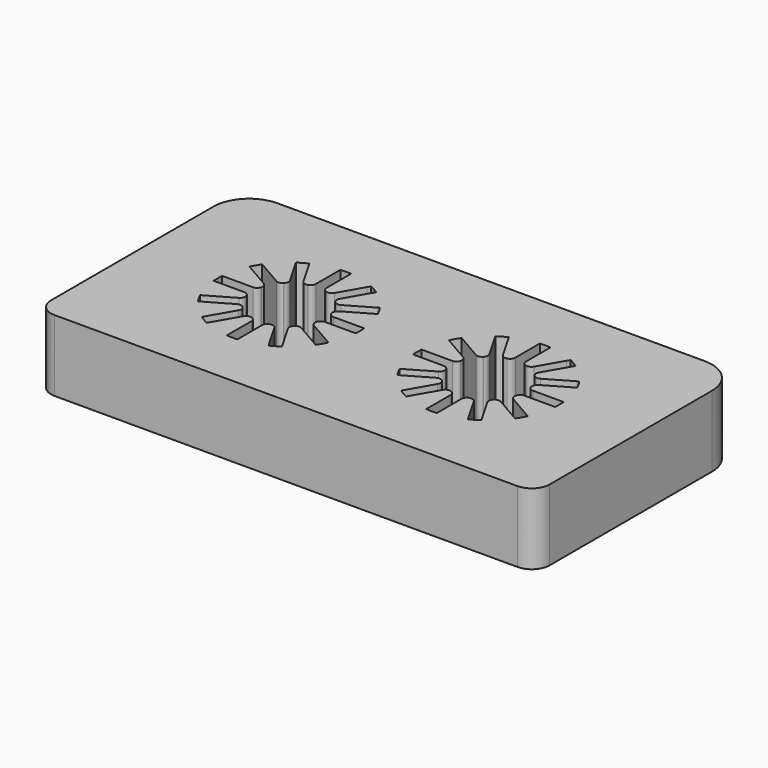
from build123d import *

# Parameters (mm, degrees)
F1_DEPTH = 20
F2_R     = 1.5


with BuildPart() as f1:
    # F0 (on Top) → F1 (new body)
    with BuildSketch(Plane.XY):
        with BuildLine():
            ThreePointArc((37, -36), (40.535534, -34.535534), (42, -31))
            Line((42, -31), (42, 26))
            ThreePointArc((42, 26), (39.071068, 33.071068), (32, 36))
            Line((32, 36), (-88, 36))
            ThreePointArc((-88, 36), (-95.071068, 33.071068), (-98, 26))
            Line((-98, 26), (-98, -31))
            ThreePointArc((-98, -31), (-96.535534, -34.535534), (-93, -36))
            Line((-93, -36), (37, -36))
        make_face()
        with BuildLine():
            ThreePointArc((-74.021725, 8.672797), (-73.320508, 10), (-72.521725, 11.270873))
            Line((-72.521725, 11.270873), (-64.004728, 6.353583))
            ThreePointArc((-64.004728, 6.353583), (-63.226468, 7.226468), (-62.353583, 8.004728))
            Line((-62.353583, 8.004728), (-66.791579, 15.691563))
            Line((-66.791579, 15.691563), (-67.270873, 16.521725))
            ThreePointArc((-67.270873, 16.521725), (-66, 17.320508), (-64.672797, 18.021725))
            Line((-64.672797, 18.021725), (-64.419191, 17.582466))
            Line((-64.419191, 17.582466), (-59.755506, 9.504728))
            ThreePointArc((-59.755506, 9.504728), (-58.645071, 9.871539), (-57.5, 10.109089))
            Line((-57.5, 10.109089), (-57.5, 19.943671))
            ThreePointArc((-57.5, 19.943671), (-56, 20), (-54.5, 19.943671))
            Line((-54.5, 19.943671), (-54.5, 10.109089))
            ThreePointArc((-54.5, 10.109089), (-53.354929, 9.871539), (-52.244494, 9.504728))
            Line((-52.244494, 9.504728), (-47.83408, 17.143788))
            Line((-47.83408, 17.143788), (-47.327203, 18.021725))
            ThreePointArc((-47.327203, 18.021725), (-46, 17.320508), (-44.729127, 16.521725))
            Line((-44.729127, 16.521725), (-45.236004, 15.643788))
            Line((-45.236004, 15.643788), (-49.646417, 8.004728))
            ThreePointArc((-49.646417, 8.004728), (-48.773532, 7.226468), (-47.995272, 6.353583))
            Line((-47.995272, 6.353583), (-39.899089, 11.027916))
            Line((-39.899089, 11.027916), (-39.478275, 11.270873))
            ThreePointArc((-39.478275, 11.270873), (-38.679492, 10), (-37.978275, 8.672797))
            Line((-37.978275, 8.672797), (-38.399089, 8.42984))
            Line((-38.399089, 8.42984), (-46.495272, 3.755506))
            ThreePointArc((-46.495272, 3.755506), (-46.128461, 2.645071), (-45.890911, 1.5))
            Line((-45.890911, 1.5), (-36.056329, 1.5))
            ThreePointArc((-36.056329, 1.5), (-36, 0), (-36.056329, -1.5))
            Line((-36.056329, -1.5), (-45.890911, -1.5))
            ThreePointArc((-45.890911, -1.5), (-46.128461, -2.645071), (-46.495272, -3.755506))
            Line((-46.495272, -3.755506), (-37.978275, -8.672797))
            ThreePointArc((-37.978275, -8.672797), (-38.679492, -10), (-39.478275, -11.270873))
            Line((-39.478275, -11.270873), (-47.995272, -6.353583))
            ThreePointArc((-47.995272, -6.353583), (-48.773532, -7.226468), (-49.646417, -8.004728))
            Line((-49.646417, -8.004728), (-44.729127, -16.521725))
            ThreePointArc((-44.729127, -16.521725), (-46, -17.320508), (-47.327203, -18.021725))
            Line((-47.327203, -18.021725), (-52.244494, -9.504728))
            ThreePointArc((-52.244494, -9.504728), (-53.354929, -9.871539), (-54.5, -10.109089))
            Line((-54.5, -10.109089), (-54.5, -19.943671))
            ThreePointArc((-54.5, -19.943671), (-56, -20), (-57.5, -19.943671))
            Line((-57.5, -19.943671), (-57.5, -10.109089))
            ThreePointArc((-57.5, -10.109089), (-58.645071, -9.871539), (-59.755506, -9.504728))
            Line((-59.755506, -9.504728), (-64.672797, -18.021725))
            ThreePointArc((-64.672797, -18.021725), (-66, -17.320508), (-67.270873, -16.521725))
            Line((-67.270873, -16.521725), (-62.353583, -8.004728))
            ThreePointArc((-62.353583, -8.004728), (-63.226468, -7.226468), (-64.004728, -6.353583))
            Line((-64.004728, -6.353583), (-72.521725, -11.270873))
            ThreePointArc((-72.521725, -11.270873), (-73.320508, -10), (-74.021725, -8.672797))
            Line((-74.021725, -8.672797), (-65.504728, -3.755506))
            ThreePointArc((-65.504728, -3.755506), (-65.871539, -2.645071), (-66.109089, -1.5))
            Line((-66.109089, -1.5), (-75.943671, -1.5))
            ThreePointArc((-75.943671, -1.5), (-76, 0), (-75.943671, 1.5))
            Line((-75.943671, 1.5), (-66.109089, 1.5))
            ThreePointArc((-66.109089, 1.5), (-65.871539, 2.645071), (-65.504728, 3.755506))
            Line((-65.504728, 3.755506), (-74.021725, 8.672797))
        make_face(mode=Mode.SUBTRACT)
        with BuildLine():
            ThreePointArc((-18.021725, 8.672797), (-17.320508, 10), (-16.521725, 11.270873))
            Line((-16.521725, 11.270873), (-8.004728, 6.353583))
            ThreePointArc((-8.004728, 6.353583), (-7.226468, 7.226468), (-6.353583, 8.004728))
            Line((-6.353583, 8.004728), (-10.791579, 15.691563))
            Line((-10.791579, 15.691563), (-11.270873, 16.521725))
            ThreePointArc((-11.270873, 16.521725), (-10, 17.320508), (-8.672797, 18.021725))
            Line((-8.672797, 18.021725), (-8.419191, 17.582466))
            Line((-8.419191, 17.582466), (-3.755506, 9.504728))
            ThreePointArc((-3.755506, 9.504728), (-2.645071, 9.871539), (-1.5, 10.109089))
            Line((-1.5, 10.109089), (-1.5, 19.943671))
            ThreePointArc((-1.5, 19.943671), (0, 20), (1.5, 19.943671))
            Line((1.5, 19.943671), (1.5, 10.109089))
            ThreePointArc((1.5, 10.109089), (2.645071, 9.871539), (3.755506, 9.504728))
            Line((3.755506, 9.504728), (8.16592, 17.143788))
            Line((8.16592, 17.143788), (8.672797, 18.021725))
            ThreePointArc((8.672797, 18.021725), (10, 17.320508), (11.270873, 16.521725))
            Line((11.270873, 16.521725), (10.763996, 15.643788))
            Line((10.763996, 15.643788), (6.353583, 8.004728))
            ThreePointArc((6.353583, 8.004728), (7.226468, 7.226468), (8.004728, 6.353583))
            Line((8.004728, 6.353583), (16.100911, 11.027916))
            Line((16.100911, 11.027916), (16.521725, 11.270873))
            ThreePointArc((16.521725, 11.270873), (17.320508, 10), (18.021725, 8.672797))
            Line((18.021725, 8.672797), (17.600911, 8.42984))
            Line((17.600911, 8.42984), (9.504728, 3.755506))
            ThreePointArc((9.504728, 3.755506), (9.871539, 2.645071), (10.109089, 1.5))
            Line((10.109089, 1.5), (19.943671, 1.5))
            ThreePointArc((19.943671, 1.5), (20, 0), (19.943671, -1.5))
            Line((19.943671, -1.5), (10.109089, -1.5))
            ThreePointArc((10.109089, -1.5), (9.871539, -2.645071), (9.504728, -3.755506))
            Line((9.504728, -3.755506), (18.021725, -8.672797))
            ThreePointArc((18.021725, -8.672797), (17.320508, -10), (16.521725, -11.270873))
            Line((16.521725, -11.270873), (8.004728, -6.353583))
            ThreePointArc((8.004728, -6.353583), (7.226468, -7.226468), (6.353583, -8.004728))
            Line((6.353583, -8.004728), (11.270873, -16.521725))
            ThreePointArc((11.270873, -16.521725), (10, -17.320508), (8.672797, -18.021725))
            Line((8.672797, -18.021725), (3.755506, -9.504728))
            ThreePointArc((3.755506, -9.504728), (2.645071, -9.871539), (1.5, -10.109089))
            Line((1.5, -10.109089), (1.5, -19.943671))
            ThreePointArc((1.5, -19.943671), (0, -20), (-1.5, -19.943671))
            Line((-1.5, -19.943671), (-1.5, -10.109089))
            ThreePointArc((-1.5, -10.109089), (-2.645071, -9.871539), (-3.755506, -9.504728))
            Line((-3.755506, -9.504728), (-8.672797, -18.021725))
            ThreePointArc((-8.672797, -18.021725), (-10, -17.320508), (-11.270873, -16.521725))
            Line((-11.270873, -16.521725), (-6.353583, -8.004728))
            ThreePointArc((-6.353583, -8.004728), (-7.226468, -7.226468), (-8.004728, -6.353583))
            Line((-8.004728, -6.353583), (-16.521725, -11.270873))
            ThreePointArc((-16.521725, -11.270873), (-17.320508, -10), (-18.021725, -8.672797))
            Line((-18.021725, -8.672797), (-9.504728, -3.755506))
            ThreePointArc((-9.504728, -3.755506), (-9.871539, -2.645071), (-10.109089, -1.5))
            Line((-10.109089, -1.5), (-19.943671, -1.5))
            ThreePointArc((-19.943671, -1.5), (-20, 0), (-19.943671, 1.5))
            Line((-19.943671, 1.5), (-10.109089, 1.5))
            ThreePointArc((-10.109089, 1.5), (-9.871539, 2.645071), (-9.504728, 3.755506))
            Line((-9.504728, 3.755506), (-18.021725, 8.672797))
        make_face(mode=Mode.SUBTRACT)
    extrude(amount=F1_DEPTH)

    # F2
    f2_edges = [f1.edges().sort_by_distance(p)[0] for p in [
        (-3.755506, 9.504728, 10),
        (-1.5, 10.109089, 10),
        (3.755506, 9.504728, 10),
        (1.5, 10.109089, 10),
        (6.353583, 8.004728, 10),
        (8.004728, 6.353583, 10),
        (9.504728, 3.755506, 10),
        (10.109089, 1.5, 10),
        (10.109089, -1.5, 10),
        (9.504728, -3.755506, 10),
        (8.004728, -6.353583, 10),
        (6.353583, -8.004728, 10),
        (3.755506, -9.504728, 10),
        (1.5, -10.109089, 10),
        (-3.755506, -9.504728, 10),
        (-1.5, -10.109089, 10),
        (-8.004728, -6.353583, 10),
        (-6.353583, -8.004728, 10),
        (-10.109089, -1.5, 10),
        (-9.504728, -3.755506, 10),
        (-9.504728, 3.755506, 10),
        (-10.109089, 1.5, 10),
        (-62.353583, 8.004728, 10),
        (-64.004728, 6.353583, 10),
        (-59.755506, 9.504728, 10),
        (-57.5, 10.109089, 10),
        (-52.244494, 9.504728, 10),
        (-47.995272, 6.353583, 10),
        (-54.5, 10.109089, 10),
        (-49.646417, 8.004728, 10),
        (-45.890911, 1.5, 10),
        (-46.495272, 3.755506, 10),
        (-65.504728, 3.755506, 10),
        (-65.504728, -3.755506, 10),
        (-66.109089, -1.5, 10),
        (-66.109089, 1.5, 10),
        (-64.004728, -6.353583, 10),
        (-62.353583, -8.004728, 10),
        (-59.755506, -9.504728, 10),
        (-57.5, -10.109089, 10),
        (-52.244494, -9.504728, 10),
        (-54.5, -10.109089, 10),
        (-49.646417, -8.004728, 10),
        (-47.995272, -6.353583, 10),
        (-46.495272, -3.755506, 10),
        (-45.890911, -1.5, 10),
        (-6.353583, 8.004728, 10),
        (-8.004728, 6.353583, 10),
    ]]
    fillet(f2_edges, radius=F2_R)


solid = f1.part
